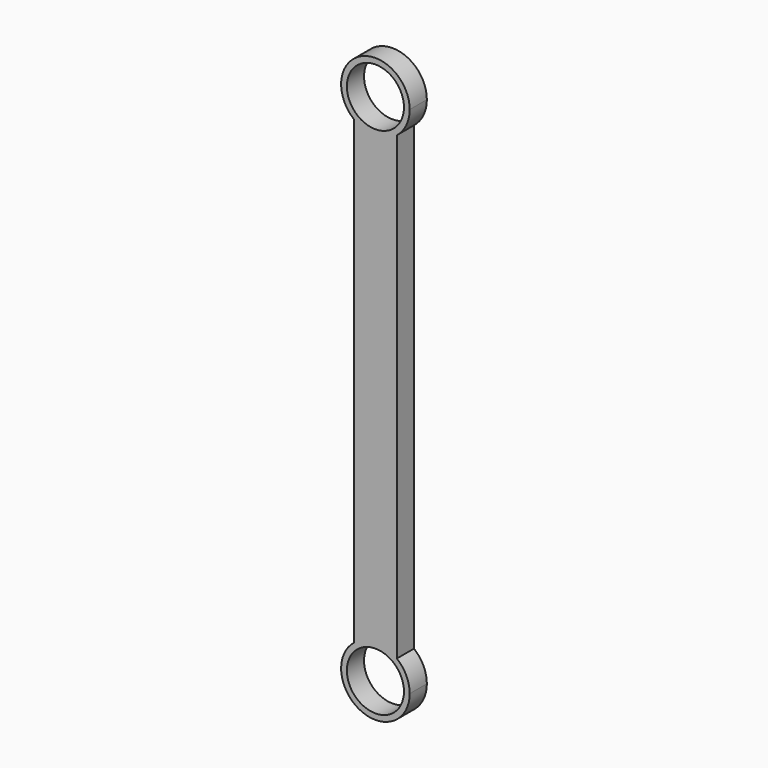
from build123d import *

# Parameters (mm, degrees)
F0_R     = 4.2291
F1_DEPTH = 3.175


with BuildPart() as f1:
    # F0 (on Front) → F1 (new body)
    with BuildSketch(Plane.XZ):
        with BuildLine():
            ThreePointArc((-3.175, -34.134426), (0, -33.02), (3.175, -34.134426))
            Line((3.175, -34.134426), (3.175, 0))
            Line((3.175, 0), (-3.175, 0))
            Line((-3.175, 0), (-3.175, -34.134426))
        make_face()
        with BuildLine():
            ThreePointArc((5.08, -38.1), (4.57905, -35.900295), (3.175, -34.134426))
            ThreePointArc((3.175, -34.134426), (0, -33.02), (-3.175, -34.134426))
            ThreePointArc((-3.175, -34.134426), (-2.199705, -42.67905), (5.08, -38.1))
        make_face()
        with Locations((0, -38.1)):
            Circle(F0_R, mode=Mode.SUBTRACT)
        with BuildLine():
            Line((-3.175, 0), (3.175, 0))
            Line((3.175, 0), (3.175, 34.134426))
            ThreePointArc((3.175, 34.134426), (0, 33.02), (-3.175, 34.134426))
            Line((-3.175, 34.134426), (-3.175, 0))
        make_face()
        with BuildLine():
            ThreePointArc((-3.175, 34.134426), (0, 33.02), (3.175, 34.134426))
            ThreePointArc((3.175, 34.134426), (4.57905, 35.900295), (5.08, 38.1))
            ThreePointArc((5.08, 38.1), (-2.199705, 42.67905), (-3.175, 34.134426))
        make_face()
        with Locations((0, 38.1)):
            Circle(F0_R, mode=Mode.SUBTRACT)
    extrude(amount=F1_DEPTH)


solid = f1.part
